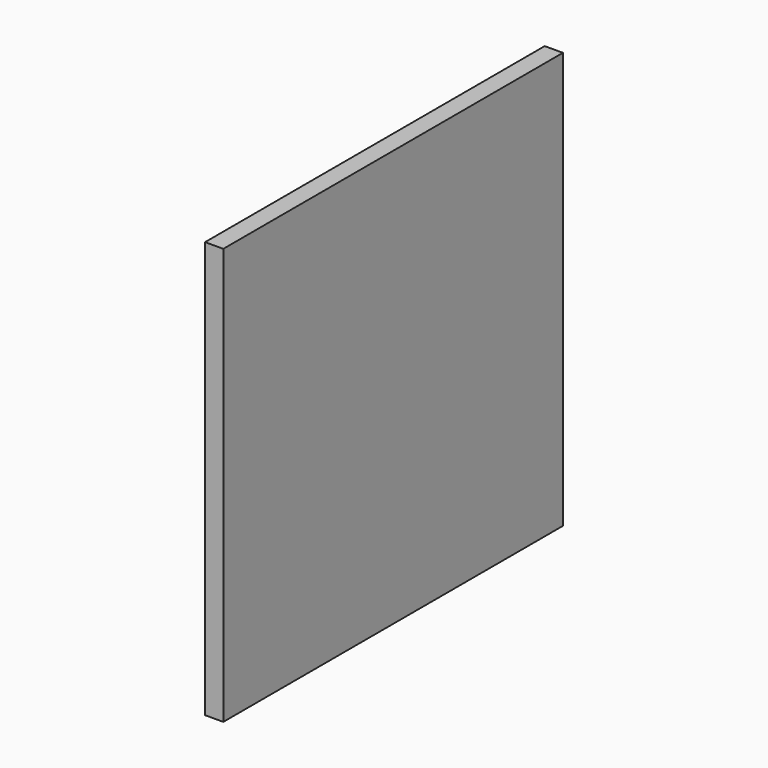
from build123d import *

# Parameters (mm, degrees)
SKETCH_W  = 420
SKETCH_H  = 412
PAD_DEPTH = 18


with BuildPart() as part:
    # Sketch → Pad (new body)
    with BuildSketch(Plane.YZ):
        with Locations((-210, 206)):
            Rectangle(SKETCH_W, SKETCH_H)
    extrude(amount=PAD_DEPTH)


solid = part.part
